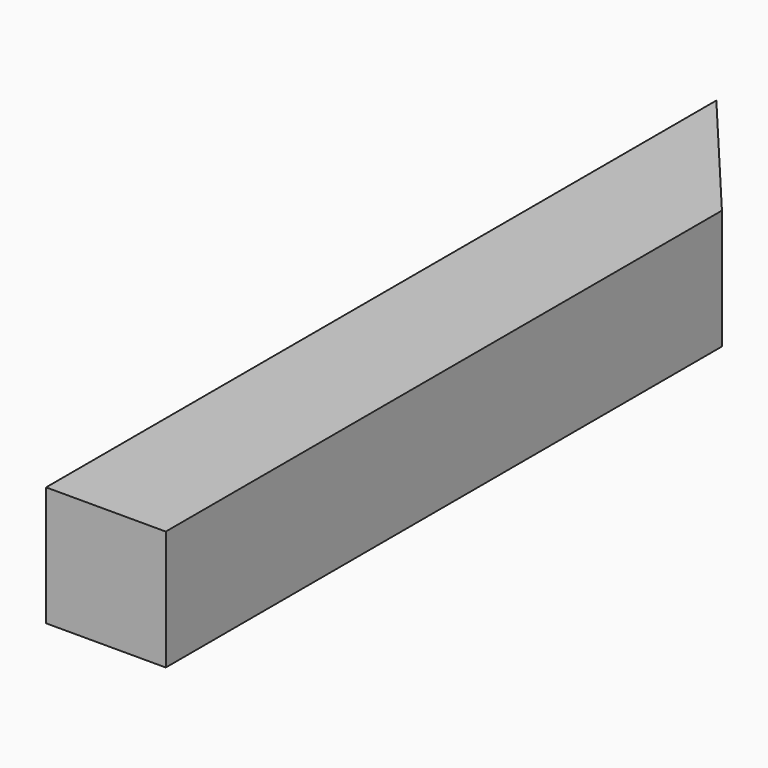
from build123d import *

# Parameters (mm, degrees)
F0_W     = 12.7
F0_H     = 12.7
F1_DEPTH = 177.8
F3_DEPTH = 25.401
F4_R     = 3.175
F5_DEPTH = 114.2886370023
F7_R     = 4.7625
F7_R_2   = 3.175
F8_DEPTH = 25.4


with BuildPart() as f1:
    # F0 (on Front) → F1 (new body)
    with BuildSketch(Plane.XZ):
        Polygon((12.7, -12.7), (12.7, 12.7), (-12.7, 12.7), (-12.7, -12.7), (-6.35, -12.7), (-6.35, 0), (6.35, 0), (6.35, -12.7), align=None)
        with Locations((0, -6.35)):
            Rectangle(F0_W, F0_H)
    extrude(amount=F1_DEPTH)

    # F2 (on face) → F3 (cut, through all)
    with BuildSketch(Plane.XY.offset(12.7)):
        Polygon((12.7, 0), (-12.7, 0), (12.7, -30.2705412519), align=None)
    extrude(amount=-F3_DEPTH, mode=Mode.SUBTRACT)

    # F4 (on face) → F5 (cut, through all)
    with BuildSketch(Plane(origin=(-7.4526659282, -6.2535292316, 0), x_dir=(-0.6427876097, 0.7660444431, 0), z_dir=(0.7660444431, 0.6427876097, 0))):
        with Locations((-8.981597357, 0)):
            Circle(F4_R)
    extrude(amount=-F5_DEPTH, mode=Mode.SUBTRACT)

    # F7 (on offset) → F8 (cut)
    with BuildSketch(Plane(origin=(-31.7745769972, -26.6620358392, 0), x_dir=(-0.6427876097, 0.7660444431, 0), z_dir=(0.7660444431, 0.6427876097, 0))):
        with Locations((-8.981597357, 0)):
            Circle(F7_R)
        with Locations((-8.981597357, 0)):
            Circle(F7_R_2, mode=Mode.SUBTRACT)
        with Locations((-8.981597357, 0)):
            Circle(F7_R_2)
    extrude(amount=F8_DEPTH, mode=Mode.SUBTRACT)


solid = f1.part
